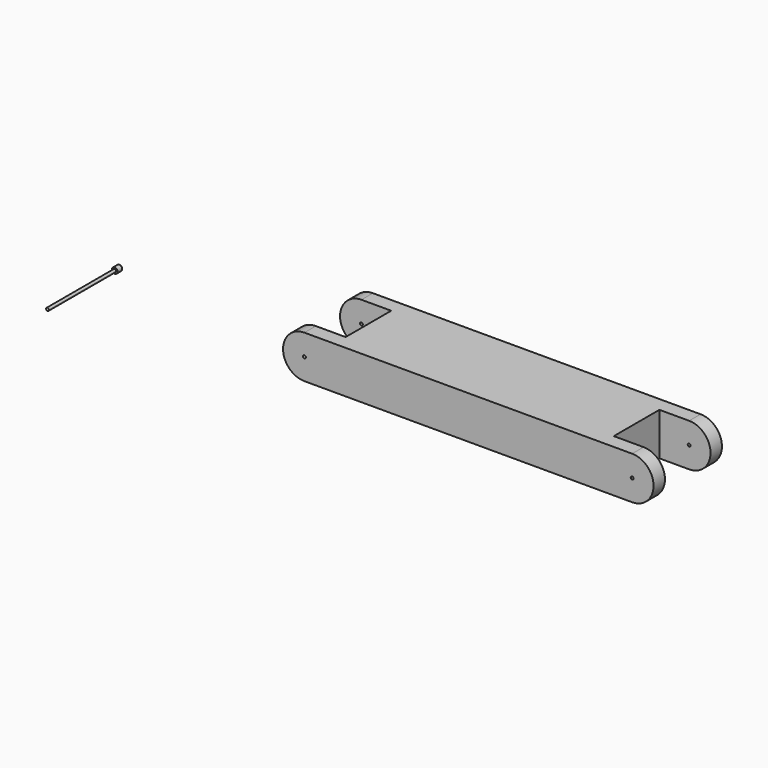
from build123d import *

# Parameters (mm, degrees)
F0_W      = 470.5713823438
F0_H      = 150
F1_DEPTH  = 150
F2_DEPTH  = 150
F0_R      = 5
F3_DEPTH  = 150
F4_DEPTH  = 100
F5_DEPTH  = 150
F6_DEPTH  = 100
F7_R      = 5
F8_DEPTH  = 150
F9_SIZE   = 5
F10_R     = 10
F11_DEPTH = 25
F12_SIZE  = 5


with BuildPart() as f1:
    # F0 (on Front) → F1 (new body)
    with BuildSketch(Plane.XZ):
        with Locations((781.5192423761, 75)):
            Rectangle(F0_W, F0_H)
        with Locations((310.9478600323, 75)):
            Rectangle(F0_W, F0_H)
    extrude(amount=F1_DEPTH)

    # F2 (add): a face of the model
    f2_faces = [f1.faces().sort_by_distance(p)[0] for p in [
        (546.2335512042, 0, 75),
    ]]
    extrude(f2_faces, amount=F2_DEPTH)

    # F0 (on Front) → F3 (join, symmetric)
    with BuildSketch(Plane.XZ):
        with BuildLine():
            Line((75.6621688604, 150), (-28.7664487958, 150))
            ThreePointArc((-28.7664487958, 150), (-81.7994573848, 128.033008589), (-103.7664487958, 75))
            ThreePointArc((-103.7664487958, 75), (-81.7994573848, 21.966991411), (-28.7664487958, 0))
            Line((-28.7664487958, 0), (75.6621688604, 0))
            Line((75.6621688604, 0), (75.6621688604, 150))
        make_face()
        with Locations((-28.7664487958, 75)):
            Circle(F0_R, mode=Mode.SUBTRACT)
    extrude(amount=F3_DEPTH, both=True)

    # F0 (on Front) → F4 (cut, symmetric)
    with BuildSketch(Plane.XZ):
        with BuildLine():
            Line((75.6621688604, 150), (-28.7664487958, 150))
            ThreePointArc((-28.7664487958, 150), (-81.7994573848, 128.033008589), (-103.7664487958, 75))
            ThreePointArc((-103.7664487958, 75), (-81.7994573848, 21.966991411), (-28.7664487958, 0))
            Line((-28.7664487958, 0), (75.6621688604, 0))
            Line((75.6621688604, 0), (75.6621688604, 150))
        make_face()
        with Locations((-28.7664487958, 75)):
            Circle(F0_R, mode=Mode.SUBTRACT)
    extrude(amount=F4_DEPTH, both=True, mode=Mode.SUBTRACT)

    # F0 (on Front) → F5 (join, symmetric)
    with BuildSketch(Plane.XZ):
        with BuildLine():
            Line((1121.2335512042, 150), (1016.804933548, 150))
            Line((1016.804933548, 150), (1016.804933548, 0))
            Line((1016.804933548, 0), (1121.2335512042, 0))
            ThreePointArc((1121.2335512042, 0), (1174.2665597932, 21.966991411), (1196.2335512042, 75))
            ThreePointArc((1196.2335512042, 75), (1174.2665597932, 128.033008589), (1121.2335512042, 150))
        make_face()
        with Locations((1121.2335512042, 75)):
            Circle(F0_R, mode=Mode.SUBTRACT)
    extrude(amount=F5_DEPTH, both=True)

    # F0 (on Front) → F6 (cut, symmetric)
    with BuildSketch(Plane.XZ):
        with BuildLine():
            Line((1121.2335512042, 150), (1016.804933548, 150))
            Line((1016.804933548, 150), (1016.804933548, 0))
            Line((1016.804933548, 0), (1121.2335512042, 0))
            ThreePointArc((1121.2335512042, 0), (1174.2665597932, 21.966991411), (1196.2335512042, 75))
            ThreePointArc((1196.2335512042, 75), (1174.2665597932, 128.033008589), (1121.2335512042, 150))
        make_face()
        with Locations((1121.2335512042, 75)):
            Circle(F0_R, mode=Mode.SUBTRACT)
    extrude(amount=F6_DEPTH, both=True, mode=Mode.SUBTRACT)


with BuildPart() as f8:
    # F7 (on Front) → F8 (new body, symmetric)
    with BuildSketch(Plane.XZ):
        with Locations((-934.4450831413, -74.7160986066)):
            Circle(F7_R)
    extrude(amount=F8_DEPTH, both=True)

    # F9
    f9_edges = [f8.edges().sort_by_distance(p)[0] for p in [
        (-939.445083, -150, -74.716099),
    ]]
    chamfer(f9_edges, length=F9_SIZE)

    # F10 (on face) → F11 (join)
    with BuildSketch(Plane(origin=(0, 150, 0), x_dir=(-1, 0, 0), z_dir=(0, 1, 0))):
        with Locations((934.4450831413, -74.7160986066)):
            Circle(F10_R)
    extrude(amount=F11_DEPTH)

    # F12
    f12_edges = [f8.edges().sort_by_distance(p)[0] for p in [
        (-924.445083, 175, -74.716099),
    ]]
    chamfer(f12_edges, length=F12_SIZE)


solid = Compound([f1.part, f8.part])
